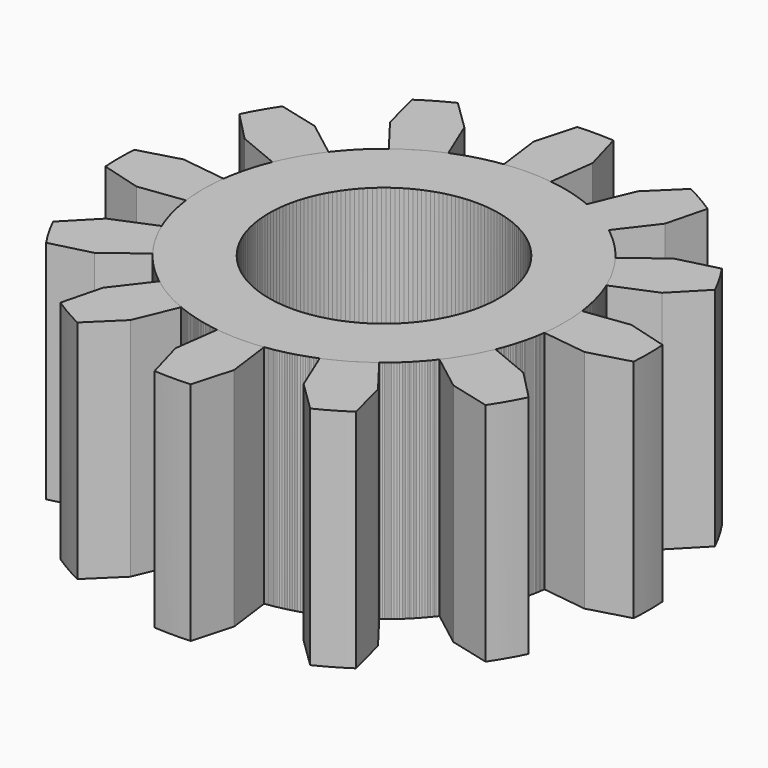
from build123d import *

# Parameters (mm, degrees)
F0_R     = 5.08
F0_R_2   = 3.2385
F1_DEPTH = 6.35
F3_DEPTH = 6.35
F4_COUNT = 12


with BuildPart() as f1:
    # F0 (on Top) → F1 (new body)
    with BuildSketch(Plane.XY):
        Circle(F0_R)
        Circle(F0_R_2, mode=Mode.SUBTRACT)
    extrude(amount=F1_DEPTH)

    # F2 (on Top) → F3 (join)
    with BuildSketch(Plane.XY):
        with BuildLine():
            Line((-0.8255, 6.296114), (-0.5715, 4.358848))
            ThreePointArc((-0.5715, 4.358848), (0, 4.396154), (0.5715, 4.358848))
            Line((0.5715, 4.358848), (0.8255, 6.296114))
            Line((0.8255, 6.296114), (0.508, 7.424842))
            ThreePointArc((0.508, 7.424842), (0, 7.4422), (-0.508, 7.424842))
            Line((-0.508, 7.424842), (-0.8255, 6.296114))
        make_face()
    extrude(amount=F3_DEPTH)


with BuildPart() as f4_1:
    # F4: instance of F1
    add(f1.part.rotate(Axis((0, 0, 6.35), (0, 0, 1)), 1 * 360 / F4_COUNT))


with BuildPart() as f4_2:
    # F4: instance of F1
    add(f1.part.rotate(Axis((0, 0, 6.35), (0, 0, 1)), 2 * 360 / F4_COUNT))


with BuildPart() as f4_3:
    # F4: instance of F1
    add(f1.part.rotate(Axis((0, 0, 6.35), (0, 0, 1)), 3 * 360 / F4_COUNT))


with BuildPart() as f4_4:
    # F4: instance of F1
    add(f1.part.rotate(Axis((0, 0, 6.35), (0, 0, 1)), 4 * 360 / F4_COUNT))


with BuildPart() as f4_5:
    # F4: instance of F1
    add(f1.part.rotate(Axis((0, 0, 6.35), (0, 0, 1)), 5 * 360 / F4_COUNT))


with BuildPart() as f4_6:
    # F4: instance of F1
    add(f1.part.rotate(Axis((0, 0, 6.35), (0, 0, 1)), 6 * 360 / F4_COUNT))


with BuildPart() as f4_7:
    # F4: instance of F1
    add(f1.part.rotate(Axis((0, 0, 6.35), (0, 0, 1)), 7 * 360 / F4_COUNT))


with BuildPart() as f4_8:
    # F4: instance of F1
    add(f1.part.rotate(Axis((0, 0, 6.35), (0, 0, 1)), 8 * 360 / F4_COUNT))


with BuildPart() as f4_9:
    # F4: instance of F1
    add(f1.part.rotate(Axis((0, 0, 6.35), (0, 0, 1)), 9 * 360 / F4_COUNT))


with BuildPart() as f4_10:
    # F4: instance of F1
    add(f1.part.rotate(Axis((0, 0, 6.35), (0, 0, 1)), 10 * 360 / F4_COUNT))


with BuildPart() as f4_11:
    # F4: instance of F1
    add(f1.part.rotate(Axis((0, 0, 6.35), (0, 0, 1)), 11 * 360 / F4_COUNT))


solid = Compound([f1.part, f4_1.part, f4_2.part, f4_3.part, f4_4.part, f4_5.part, f4_6.part, f4_7.part, f4_8.part, f4_9.part, f4_10.part, f4_11.part])
